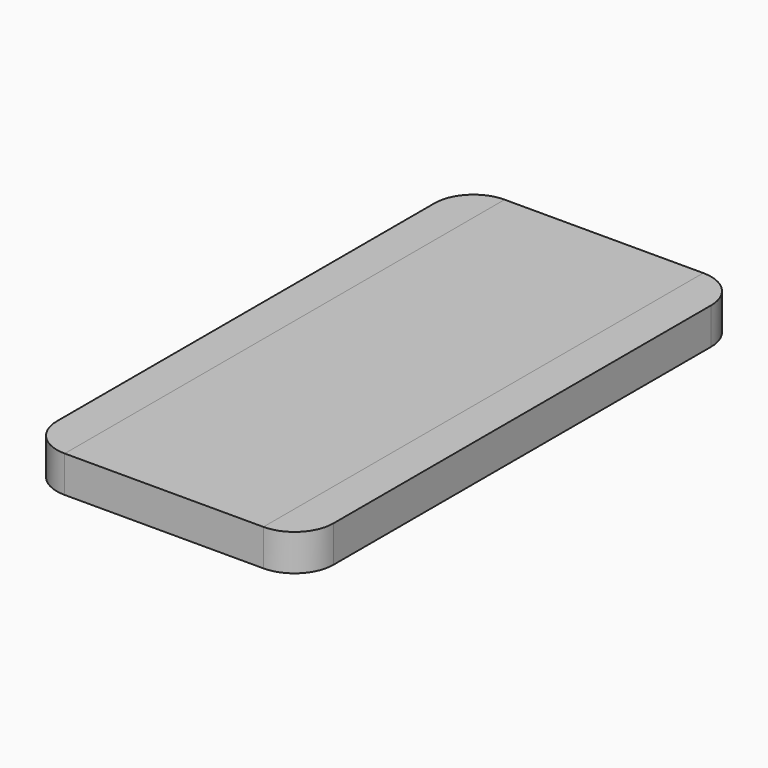
from build123d import *

# Parameters (mm, degrees)
F0_W     = 71
F0_H     = 141.15
F1_DEPTH = 9.37
F2_R     = 10
F4_DEPTH = 9.37
F3_W     = 51
F3_H     = 141.15
F5_DEPTH = 9.37


with BuildPart() as f1:
    # F0 (on Top) → F1 (new body)
    with BuildSketch(Plane.XY):
        Rectangle(F0_W, F0_H)
    extrude(amount=F1_DEPTH)

    # F2
    f2_edges = [f1.edges().sort_by_distance(p)[0] for p in [
        (35.5, -70.575, 4.685),
        (-35.5, -70.575, 4.685),
        (35.5, 70.575, 4.685),
        (-35.5, 70.575, 4.685),
    ]]
    fillet(f2_edges, radius=F2_R)


with BuildPart() as f4:
    # F3 (on face) → F4 (new body)
    with BuildSketch(Plane.XY.offset(9.37)):
        with BuildLine():
            Line((-25.5, -70.575), (-25.5, 70.575))
            ThreePointArc((-25.5, 70.575), (-32.571068, 67.646068), (-35.5, 60.575))
            Line((-35.5, 60.575), (-35.5, -60.575))
            ThreePointArc((-35.5, -60.575), (-32.571068, -67.646068), (-25.5, -70.575))
        make_face()
        with BuildLine():
            ThreePointArc((35.5, 60.575), (32.571068, 67.646068), (25.5, 70.575))
            Line((25.5, 70.575), (25.5, -70.575))
            ThreePointArc((25.5, -70.575), (32.571068, -67.646068), (35.5, -60.575))
            Line((35.5, -60.575), (35.5, 60.575))
        make_face()
    extrude(amount=-F4_DEPTH)


with BuildPart() as f5:
    # F3 (on face) → F5 (new body)
    with BuildSketch(Plane.XY.offset(9.37)):
        Rectangle(F3_W, F3_H)
    extrude(amount=-F5_DEPTH)


solid = Compound([f1.part, f4.part, f5.part])
